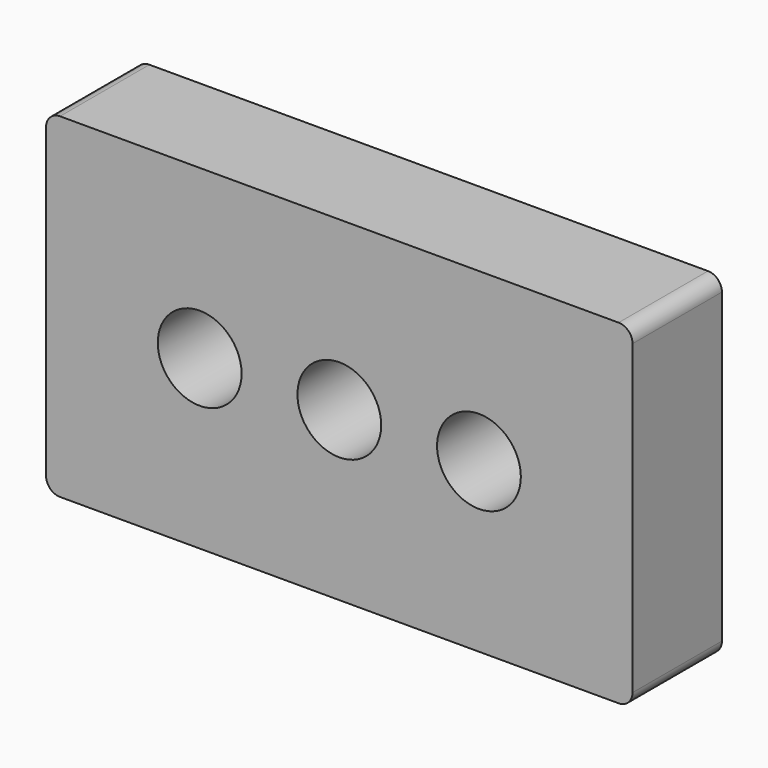
from build123d import *

# Parameters (mm, degrees)
F0_R     = 19.05
F1_DEPTH = 50.8
F2_DEPTH = 25.4


with BuildPart() as f1:
    # F0 (on Front) → F1 (new body)
    with BuildSketch(Plane.XZ):
        with BuildLine():
            Line((-127, -76.2), (127, -76.2))
            ThreePointArc((127, -76.2), (131.490128, -74.340128), (133.35, -69.85))
            Line((133.35, -69.85), (133.35, 69.85))
            ThreePointArc((133.35, 69.85), (131.490128, 74.340128), (127, 76.2))
            Line((127, 76.2), (-127, 76.2))
            ThreePointArc((-127, 76.2), (-131.490128, 74.340128), (-133.35, 69.85))
            Line((-133.35, 69.85), (-133.35, -69.85))
            ThreePointArc((-133.35, -69.85), (-131.490128, -74.340128), (-127, -76.2))
        make_face()
        with Locations((-63.5, 0)):
            Circle(F0_R, mode=Mode.SUBTRACT)
        Circle(F0_R, mode=Mode.SUBTRACT)
        with Locations((63.5, 0)):
            Circle(F0_R, mode=Mode.SUBTRACT)
    extrude(amount=F1_DEPTH)

    # F0 (on Front) → F2 (cut)
    with BuildSketch(Plane.XZ):
        with Locations((-63.5, 0)):
            Circle(F0_R)
        Circle(F0_R)
        with Locations((63.5, 0)):
            Circle(F0_R)
    extrude(amount=-F2_DEPTH, mode=Mode.SUBTRACT)


solid = f1.part
